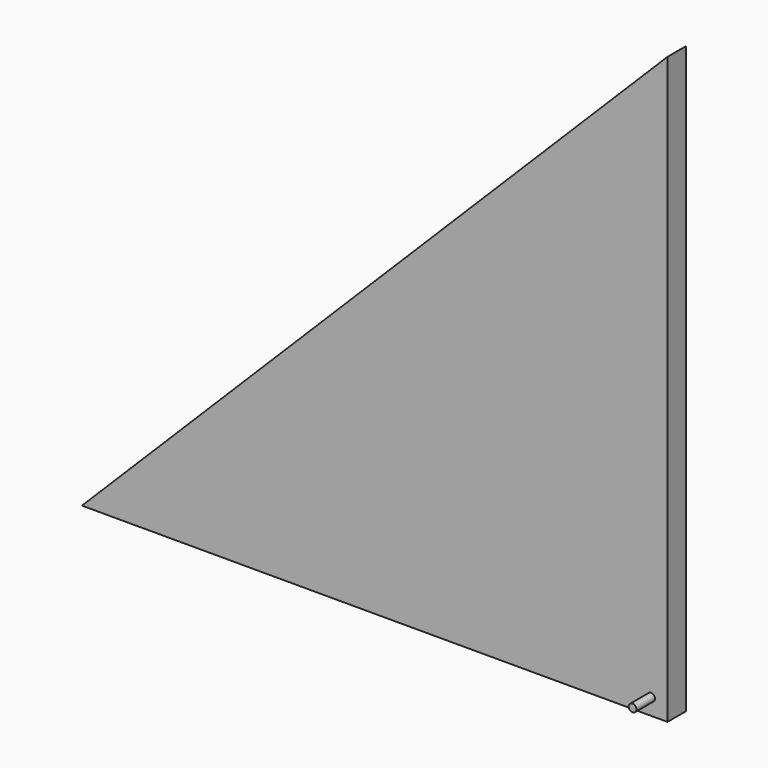
from build123d import *

# Parameters (mm, degrees)
F0_R     = 0.5
F1_DEPTH = 3
F2_DEPTH = 6


with BuildPart() as f1:
    # F0 (on Front) → F1 (new body)
    with BuildSketch(Plane.XZ):
        Polygon((-35.757, -40), (40, -40), (40, 35.757), align=None)
        with Locations((37.87868, -37.87868)):
            Circle(F0_R, mode=Mode.SUBTRACT)
    extrude(amount=F1_DEPTH)

    # F0 (on Front) → F2 (join)
    with BuildSketch(Plane.XZ):
        with Locations((37.87868, -37.87868)):
            Circle(F0_R)
    extrude(amount=F2_DEPTH)


solid = f1.part
